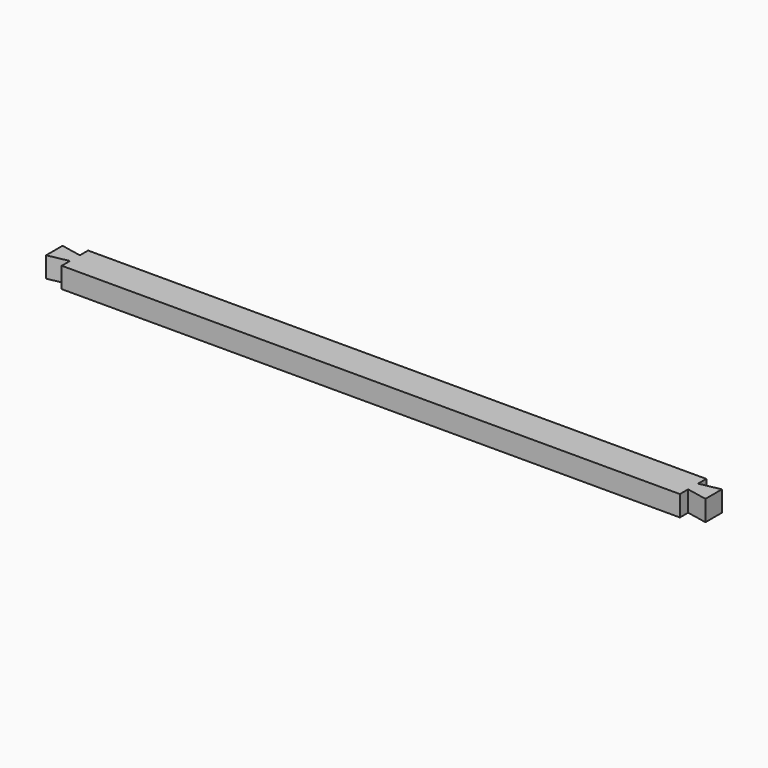
from build123d import *

# Parameters (mm, degrees)
F1_DEPTH = 25


with BuildPart() as f1:
    # F0 (on Top) → F1 (new body)
    with BuildSketch(Plane.XY):
        Polygon((643.2379722595, 17.7944789454), (-106.7620277405, 17.7944789454), (-106.7620277405, 5.2944789454), (-106.7620277405, -9.7055210546), (-106.7620277405, -22.2055210546), (643.2379722595, -22.2055210546), align=None)
        Polygon((-106.7620277405, -9.7055210546), (-106.7620277405, 5.2944789454), (-131.7620277405, 10.2944789454), (-131.7620277405, -14.7055210546), align=None)
    extrude(amount=F1_DEPTH)

    # F6: F1 across plane


with BuildPart() as f1_1:
    add(f1.part)
    add(f1.part.mirror(Plane(origin=(268.2379722595, -22.2055210546, 25), x_dir=(0, 1, 0), z_dir=(1, 0, 0))))


solid = f1_1.part
